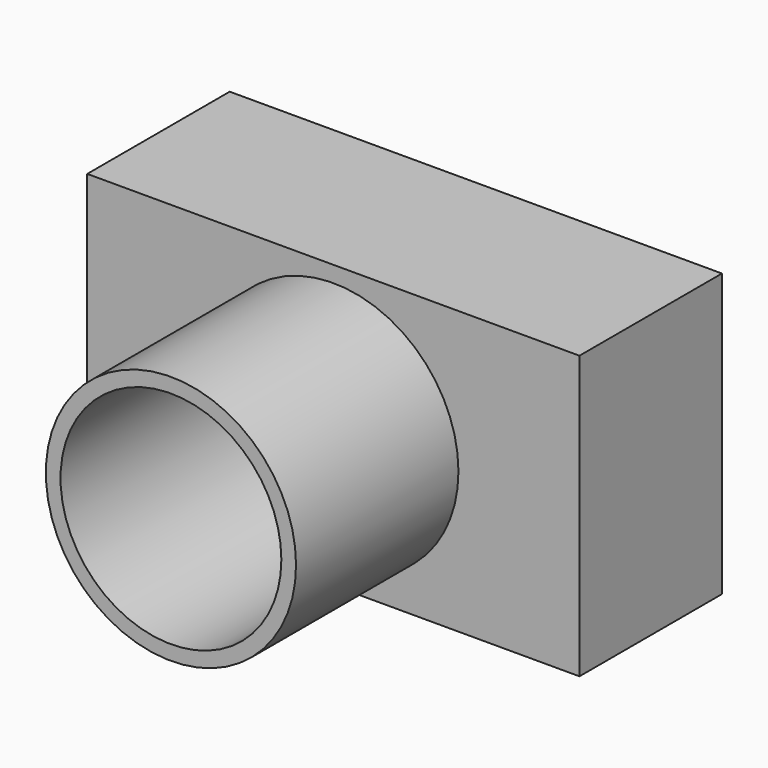
from build123d import *

# Parameters (mm, degrees)
F0_W     = 140.415922
F0_H     = 80.524236
F0_R     = 35.686314
F1_DEPTH = 50.8
F0_R_2   = 31.497511
F2_DEPTH = 108.712


with BuildPart() as f1:
    # F0 (on Front) → F1 (new body)
    with BuildSketch(Plane.XZ):
        Rectangle(F0_W, F0_H)
        Circle(F0_R, mode=Mode.SUBTRACT)
    extrude(amount=F1_DEPTH)


with BuildPart() as f2:
    # F0 (on Front) → F2 (new body)
    with BuildSketch(Plane.XZ):
        Circle(F0_R)
        Circle(F0_R_2, mode=Mode.SUBTRACT)
    extrude(amount=F2_DEPTH)


solid = Compound([f1.part, f2.part])
